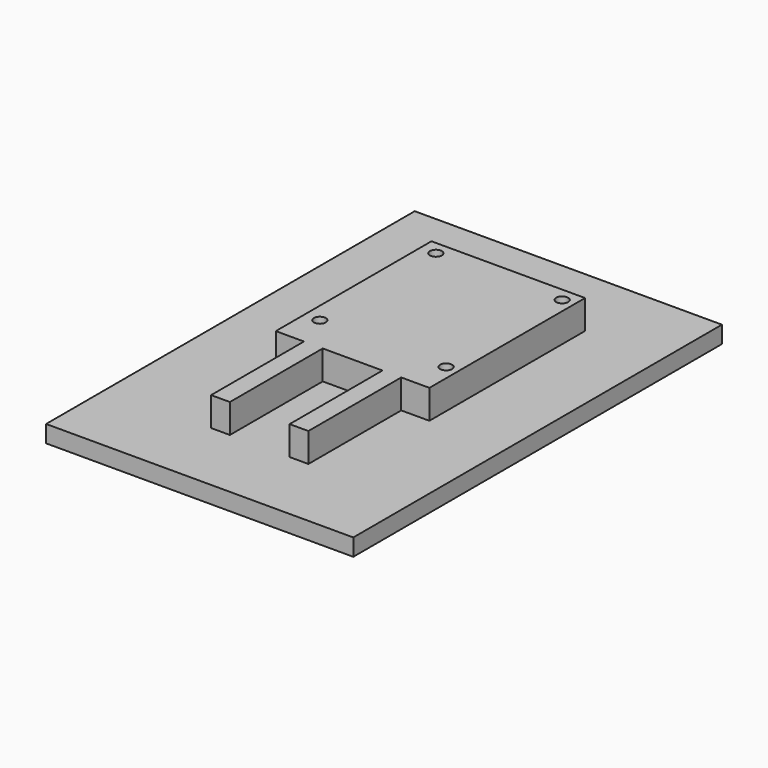
from build123d import *

# Parameters (mm, degrees)
F1_DEPTH = 17
F2_R     = 3.5
F3_DEPTH = 17.001
F4_W     = 180
F4_H     = 270
F5_DEPTH = 10
F6_R     = 3.4
F7_DEPTH = 10
F8_R     = 5.625
F9_DEPTH = 6


with BuildPart() as f1:
    # F0 (on Top) → F1 (new body)
    with BuildSketch(Plane.XY):
        Polygon((-45, 114), (-45, 0), (-28.5, 0), (-28.5, -68), (-17.5, -68), (-17.5, 0), (17.5, 0), (17.5, -68), (28.5, -68), (28.5, 0), (45, 0), (45, 114), align=None)
    extrude(amount=F1_DEPTH)

    # F2 (on face) → F3 (cut, through all)
    with BuildSketch(Plane.XY.offset(17)):
        with Locations((-36, 106)):
            Circle(F2_R)
        with Locations((-36, 21)):
            Circle(F2_R)
        with Locations((38, 106)):
            Circle(F2_R)
        with Locations((38, 21)):
            Circle(F2_R)
    extrude(amount=-F3_DEPTH, mode=Mode.SUBTRACT)


with BuildPart() as f5:
    # F4 (on Top) → F5 (new body)
    with BuildSketch(Plane.XY):
        with Locations((0, 23)):
            Rectangle(F4_W, F4_H)
    extrude(amount=-F5_DEPTH)

    # F6 (on face) → F7 (cut)
    with BuildSketch(Plane(origin=(0, 0, -10), x_dir=(1, 0, 0), z_dir=(0, 0, -1))):
        with Locations((37, -106)):
            Circle(F6_R)
        with Locations((-37, -106)):
            Circle(F6_R)
        with Locations((37, -21)):
            Circle(F6_R)
        with Locations((-37, -21)):
            Circle(F6_R)
    extrude(amount=-F7_DEPTH, mode=Mode.SUBTRACT)

    # F8 (on face) → F9 (cut)
    with BuildSketch(Plane(origin=(0, 0, -10), x_dir=(1, 0, 0), z_dir=(0, 0, -1))):
        with Locations((37, -21)):
            Circle(F8_R)
        with Locations((37, -106)):
            Circle(F8_R)
        with Locations((-37, -106)):
            Circle(F8_R)
        with Locations((-37, -21)):
            Circle(F8_R)
    extrude(amount=-F9_DEPTH, mode=Mode.SUBTRACT)


solid = Compound([f1.part, f5.part])
